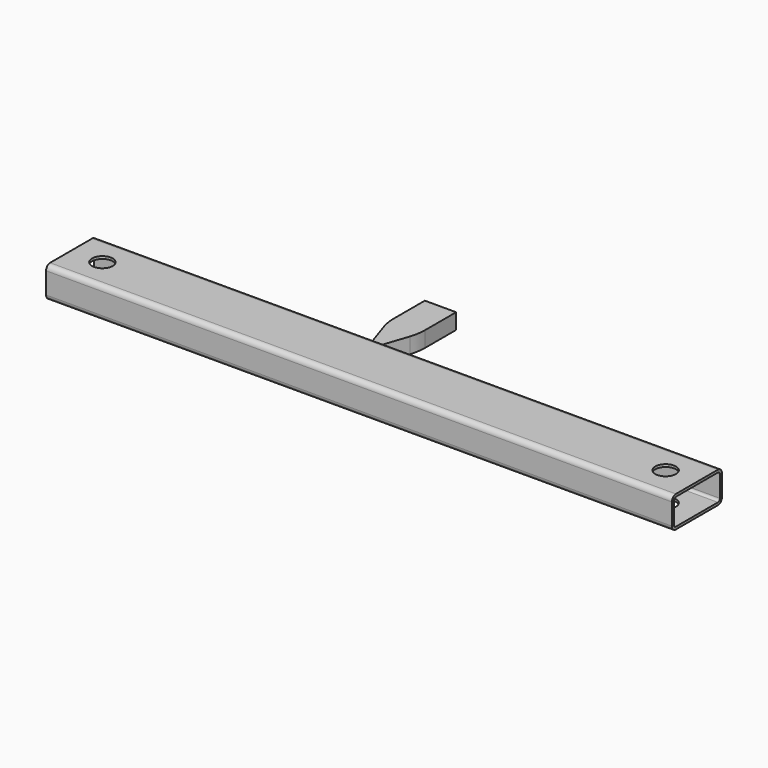
from build123d import *

# Parameters (mm, degrees)
F0_W     = 100
F0_H     = 50
F1_DEPTH = 1000
F2_R     = 8
F3_T     = -4
F4_R     = 16.5
F5_DEPTH = 50.001
F7_DEPTH = 12.5
F8_R     = 80


with BuildPart() as f1:
    # F0 (on Right) → F1 (new body)
    with BuildSketch(Plane.YZ):
        Rectangle(F0_W, F0_H)
    extrude(amount=F1_DEPTH)

    # F2
    f2_edges = [f1.edges().sort_by_distance(p)[0] for p in [
        (500, -50, 25),
        (500, -50, -25),
        (500, 50, 25),
        (500, 50, -25),
    ]]
    fillet(f2_edges, radius=F2_R)

    # F3
    f3_openings = [f1.faces().sort_by_distance(p)[0] for p in [
        (1000, 0, 0),
        (0, 0, 0),
    ]]
    offset(amount=F3_T, openings=f3_openings)

    # F4 (on face) → F5 (cut, through all)
    with BuildSketch(Plane.XY.offset(25)):
        with Locations((50, 0)):
            Circle(F4_R)
        with Locations((950, 0)):
            Circle(F4_R)
    extrude(amount=-F5_DEPTH, mode=Mode.SUBTRACT)


with BuildPart() as f7:
    # F6 (on Top) → F7 (new body, symmetric)
    with BuildSketch(Plane.XY):
        with BuildLine():
            Line((464.082978, 200), (414.082978, 200))
            Line((414.082978, 200), (414.082978, 125))
            Line((414.082978, 125), (434.339562, 64.230249))
            ThreePointArc((434.339562, 64.230249), (439.082978, 60.811388), (443.826395, 64.230249))
            Line((443.826395, 64.230249), (464.082978, 125))
            Line((464.082978, 125), (464.082978, 200))
        make_face()
    extrude(amount=F7_DEPTH, both=True)

    # F8
    f8_edges = [f7.edges().sort_by_distance(p)[0] for p in [
        (414.082978, 125, 0),
        (464.082978, 125, 0),
    ]]
    fillet(f8_edges, radius=F8_R)


with BuildPart() as f7_1:
    # F9: moved
    add(f7.part.moved(Location((0, -11, 0))))


solid = Compound([f1.part, f7_1.part])
